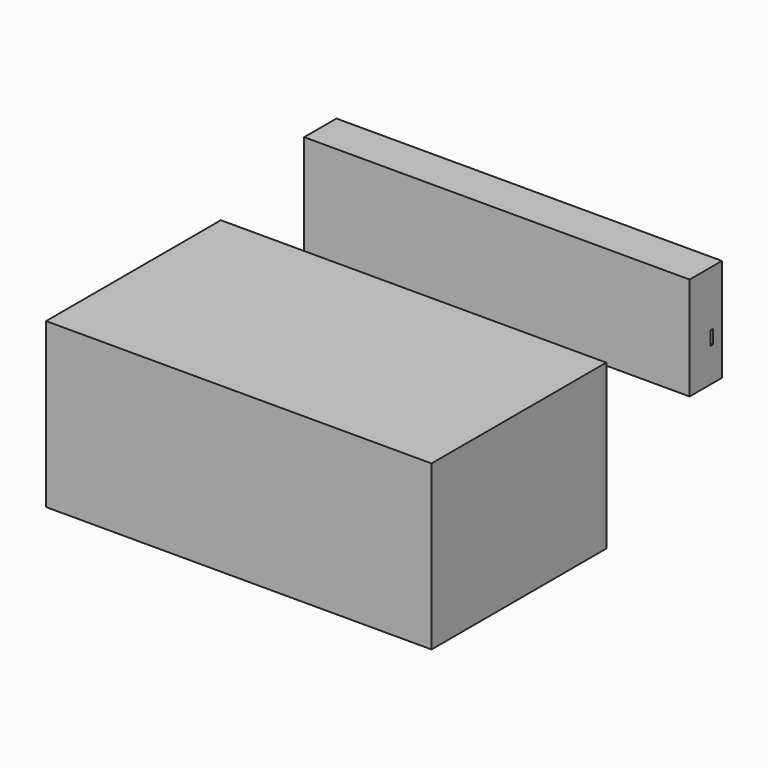
from build123d import *

# Parameters (mm, degrees)
F0_W     = 1.376897
F0_H     = 6.162446
F0_W_2   = 103.679534
F0_H_2   = 77.741012
F1_DEPTH = 182.969511


with BuildPart() as f1:
    # F0 (on Right) → F1 (new body)
    with BuildSketch(Plane.YZ):
        Polygon((116.586633, 33.22519), (117.96353, 33.22519), (117.96353, 47.895301), (112.700738, 47.895301), (112.700738, 43.117091), (111.302108, 43.117091), (111.302108, 47.895301), (106.690735, 47.895301), (106.690735, 65.501198), (117.96353, 65.501198), (117.96353, 75.939), (98.801486, 75.939), (98.801486, 27.062744), (116.586633, 27.062744), align=None)
        with Locations((117.275081, 30.143967)):
            Rectangle(F0_W, F0_H)
        Polygon((112.700738, 47.895301), (117.96353, 47.895301), (117.96353, 65.501198), (106.690735, 65.501198), (106.690735, 47.895301), (111.302108, 47.895301), (111.302108, 49.752183), (112.700738, 49.752183), align=None)
        with Locations((-2.497019, 22.467557)):
            Rectangle(F0_W_2, F0_H_2)
    extrude(amount=F1_DEPTH)


solid = f1.part
